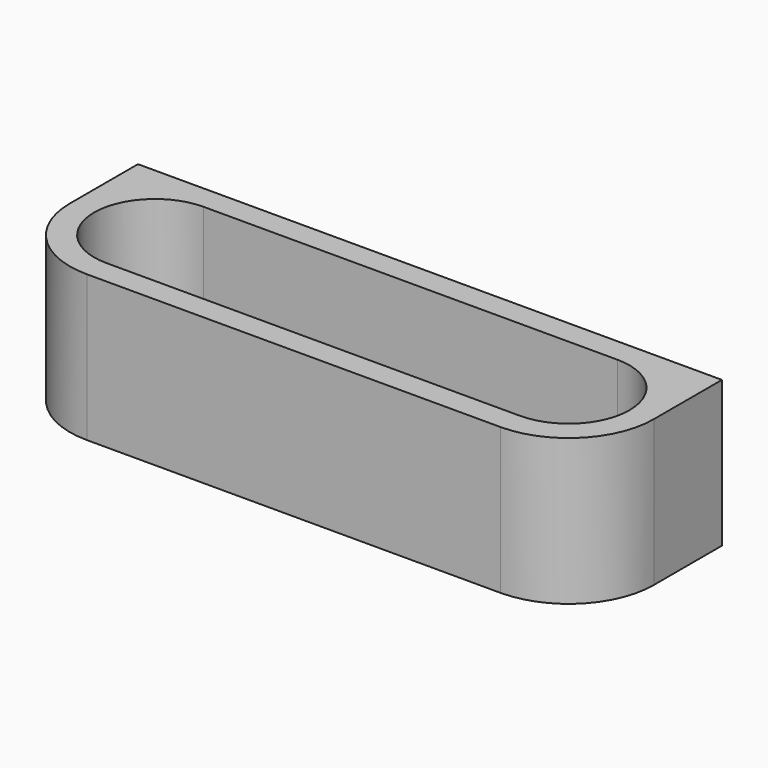
from build123d import *

# Parameters (mm, degrees)
F1_DEPTH  = 76.2
F3_DEPTH  = 127
F4_DEPTH  = 127
F5_DEPTH  = 127
F6_DEPTH  = 127
F7_DEPTH  = 76.2
F8_DEPTH  = 76.2
F9_DEPTH  = 76.2
F10_DEPTH = 76.2


with BuildPart() as f1:
    # F0 (on Top) → F1 (new body)
    with BuildSketch(Plane.XY):
        Polygon((-152.4, -88.9), (0, -88.9), (152.4, -88.9), (152.4, 0), (0, 0), (-152.4, 0), align=None)
    extrude(amount=F1_DEPTH)

    # F2 (on face) → F3 (cut)
    with BuildSketch(Plane.XY.offset(76.2)):
        with BuildLine():
            Line((-152.4, -88.9), (-107.95, -88.9))
            ThreePointArc((-107.95, -88.9), (-139.380896, -75.880896), (-152.4, -44.45))
            Line((-152.4, -44.45), (-152.4, -88.9))
        make_face()
    extrude(amount=-F3_DEPTH, mode=Mode.SUBTRACT)

    # F2 (on face) → F4 (cut)
    with BuildSketch(Plane.XY.offset(76.2)):
        with BuildLine():
            ThreePointArc((-152.4, -44.45), (-139.380896, -75.880896), (-107.95, -88.9))
            Line((-107.95, -88.9), (-107.95, -76.2))
            ThreePointArc((-107.95, -76.2), (-139.7, -44.45), (-107.95, -12.7))
            Line((-107.95, -12.7), (-107.95, 0))
            Line((-107.95, 0), (-152.4, 0))
            Line((-152.4, 0), (-152.4, -44.45))
        make_face()
    extrude(amount=-F4_DEPTH, mode=Mode.SUBTRACT)

    # F2 (on face) → F5 (cut)
    with BuildSketch(Plane.XY.offset(76.2)):
        with BuildLine():
            ThreePointArc((107.95, 0), (139.380896, -13.019104), (152.4, -44.45))
            Line((152.4, -44.45), (152.4, 0))
            Line((152.4, 0), (107.95, 0))
        make_face()
    extrude(amount=-F5_DEPTH, mode=Mode.SUBTRACT)

    # F2 (on face) → F6 (cut)
    with BuildSketch(Plane.XY.offset(76.2)):
        with BuildLine():
            Line((107.95, -88.9), (152.4, -88.9))
            Line((152.4, -88.9), (152.4, -44.45))
            ThreePointArc((152.4, -44.45), (139.380896, -75.880896), (107.95, -88.9))
        make_face()
    extrude(amount=-F6_DEPTH, mode=Mode.SUBTRACT)

    # F2 (on face) → F7 (join)
    with BuildSketch(Plane.XY.offset(76.2)):
        with BuildLine():
            ThreePointArc((107.95, 0), (139.380896, -13.019104), (152.4, -44.45))
            Line((152.4, -44.45), (152.4, 0))
            Line((152.4, 0), (107.95, 0))
        make_face()
    extrude(amount=-F7_DEPTH)

    # F2 (on face) → F8 (join)
    with BuildSketch(Plane.XY.offset(76.2)):
        with BuildLine():
            ThreePointArc((-152.4, -44.45), (-139.380896, -75.880896), (-107.95, -88.9))
            Line((-107.95, -88.9), (-107.95, -76.2))
            ThreePointArc((-107.95, -76.2), (-139.7, -44.45), (-107.95, -12.7))
            Line((-107.95, -12.7), (-107.95, 0))
            Line((-107.95, 0), (-152.4, 0))
            Line((-152.4, 0), (-152.4, -44.45))
        make_face()
    extrude(amount=-F8_DEPTH)

    # F2 (on face) → F9 (cut)
    with BuildSketch(Plane.XY.offset(76.2)):
        with BuildLine():
            Line((0, -76.2), (107.95, -76.2))
            ThreePointArc((107.95, -76.2), (139.7, -44.45), (107.95, -12.7))
            Line((107.95, -12.7), (0, -12.7))
            Line((0, -12.7), (-107.95, -12.7))
            ThreePointArc((-107.95, -12.7), (-139.7, -44.45), (-107.95, -76.2))
            Line((-107.95, -76.2), (0, -76.2))
        make_face()
    extrude(amount=-F9_DEPTH, mode=Mode.SUBTRACT)

    # F2 (on face) → F10 (cut)
    with BuildSketch(Plane.XY.offset(76.2)):
        with BuildLine():
            Line((0, -76.2), (107.95, -76.2))
            ThreePointArc((107.95, -76.2), (139.7, -44.45), (107.95, -12.7))
            Line((107.95, -12.7), (0, -12.7))
            Line((0, -12.7), (-107.95, -12.7))
            ThreePointArc((-107.95, -12.7), (-139.7, -44.45), (-107.95, -76.2))
            Line((-107.95, -76.2), (0, -76.2))
        make_face()
    extrude(amount=-F10_DEPTH, mode=Mode.SUBTRACT)


solid = f1.part
